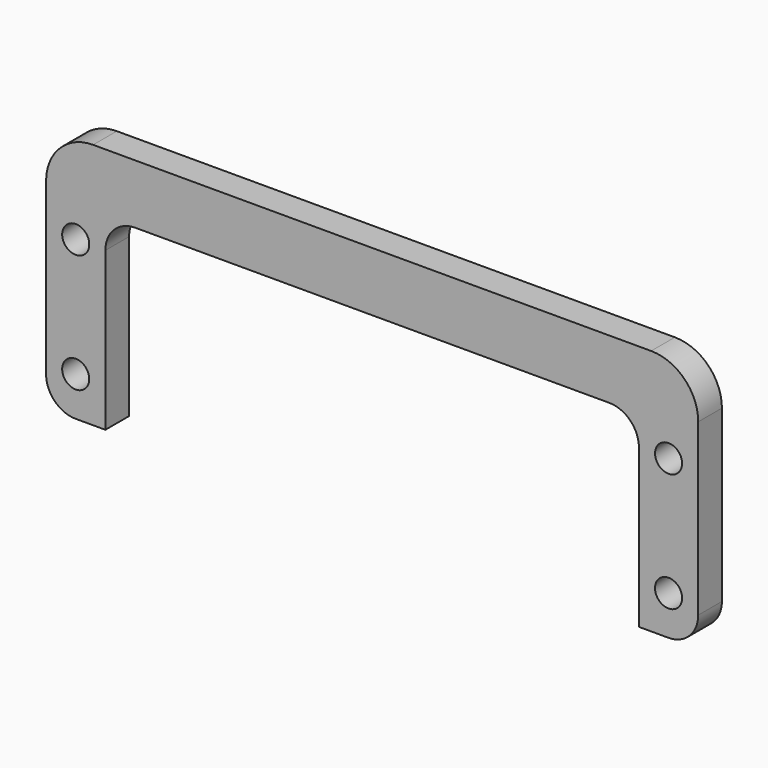
from build123d import *

# Parameters (mm, degrees)
F1_DEPTH = 4
F3_D     = 3.6576


with BuildPart() as f1:
    # F0 (on Front) → F1 (new body)
    with BuildSketch(Plane.XZ):
        with BuildLine():
            Line((-40.3778524697, -10.0041508305), (-36.3778524697, -10.0041508305))
            Line((-36.3778524697, -10.0041508305), (-36.3778524697, 11.3118370611))
            ThreePointArc((-36.3778524697, 11.3118370611), (-35.2062795944, 14.1402641858), (-32.3778524697, 15.3118370611))
            Line((-32.3778524697, 15.3118370611), (31.6221475303, 15.3118370611))
            ThreePointArc((31.6221475303, 15.3118370611), (34.4505746551, 14.1402641858), (35.6221475303, 11.3118370611))
            Line((35.6221475303, 11.3118370611), (35.6221475303, -10.0041508305))
            Line((35.6221475303, -10.0041508305), (39.6221475303, -10.0041508305))
            ThreePointArc((39.6221475303, -10.0041508305), (42.4505746551, -8.8325779553), (43.6221475303, -6.0041508305))
            Line((43.6221475303, -6.0041508305), (43.6221475303, 16.9618370611))
            ThreePointArc((43.6221475303, 16.9618370611), (41.7622755909, 21.4519651216), (37.2721475303, 23.3118370611))
            Line((37.2721475303, 23.3118370611), (-38.0278524697, 23.3118370611))
            ThreePointArc((-38.0278524697, 23.3118370611), (-42.5179805302, 21.4519651216), (-44.3778524697, 16.9618370611))
            Line((-44.3778524697, 16.9618370611), (-44.3778524697, -6.0041508305))
            ThreePointArc((-44.3778524697, -6.0041508305), (-43.2062795944, -8.8325779553), (-40.3778524697, -10.0041508305))
        make_face()
    extrude(amount=F1_DEPTH)

    # F3 (through all)
    with Locations(Plane.XZ.offset(4)):
        with Locations((-40.3778524697, 11.3118370611), (-40.3778524697, -4.6881629389), (39.6221475303, 11.3118370611), (39.6221475303, -4.6881629389)):
            Hole(F3_D / 2)


solid = f1.part
